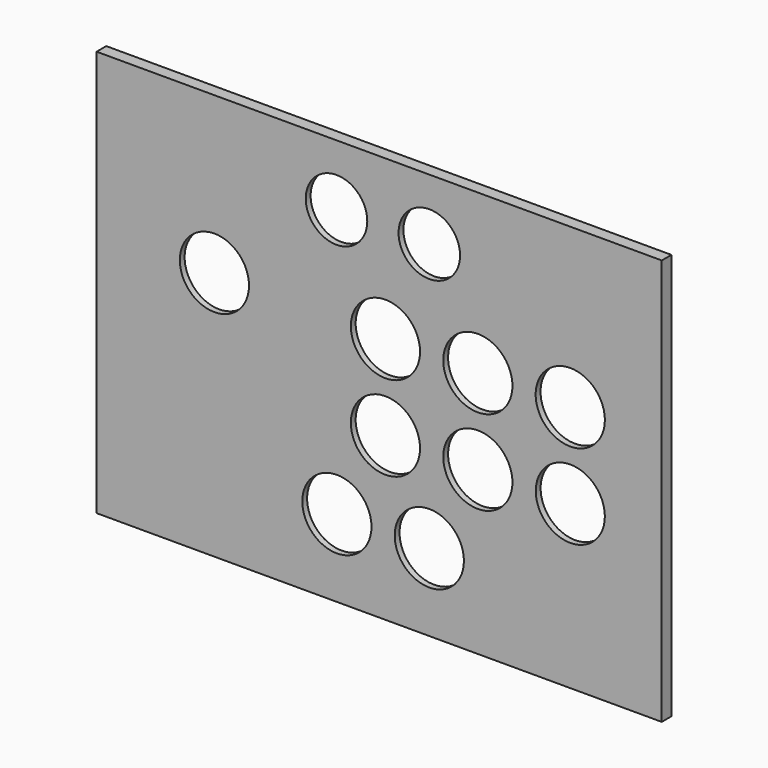
from build123d import *

# Parameters (mm, degrees)
F0_W     = 233.391122
F0_H     = 167.760142
F0_R     = 14.287094
F0_R_2   = 14.2875
F0_R_3   = 14.287856
F0_R_4   = 14.261292
F0_R_5   = 14.287475
F0_R_6   = 12.700237
F1_DEPTH = 2.5
F2_W     = 3
F2_H     = 3
F2_W_2   = 227.391122
F2_H_2   = 161.760142
F3_DEPTH = 2.5


with BuildPart() as f1:
    # F0 (on Front) → F1 (new body)
    with BuildSketch(Plane.XZ):
        Rectangle(F0_W, F0_H)
        with Locations((-17.460909, -51.958768)):
            Circle(F0_R, mode=Mode.SUBTRACT)
        with Locations((20.706644, -51.958057)):
            Circle(F0_R_2, mode=Mode.SUBTRACT)
        with Locations((2.589838, -16.863295)):
            Circle(F0_R, mode=Mode.SUBTRACT)
        with Locations((40.757772, -16.864183)):
            Circle(F0_R_3, mode=Mode.SUBTRACT)
        with Locations((78.93528, -16.822839)):
            Circle(F0_R_4, mode=Mode.SUBTRACT)
        with Locations((-68.03398, 19.30053)):
            Circle(F0_R_5, mode=Mode.SUBTRACT)
        with Locations((-17.608788, 58.596443)):
            Circle(F0_R_6, mode=Mode.SUBTRACT)
        with Locations((2.591311, 18.233144)):
            Circle(F0_R_2, mode=Mode.SUBTRACT)
        with Locations((40.755791, 18.233144)):
            Circle(F0_R_2, mode=Mode.SUBTRACT)
        with Locations((78.921871, 18.233144)):
            Circle(F0_R_2, mode=Mode.SUBTRACT)
        with Locations((20.70639, 58.596469)):
            Circle(F0_R_6, mode=Mode.SUBTRACT)
    extrude(amount=F1_DEPTH)

    # F2 (on face) → F3 (join)
    with BuildSketch(Plane(origin=(0, 0, 0), x_dir=(-1, 0, 0), z_dir=(0, 1, 0))):
        with Locations((-115.195561, -82.380071)):
            Rectangle(F2_W, F2_H)
        with Locations((0, -82.380071)):
            Rectangle(F2_W_2, F2_H)
        with Locations((-115.195561, 0)):
            Rectangle(F2_W, F2_H_2)
        with Locations((115.195561, -82.380071)):
            Rectangle(F2_W, F2_H)
        with Locations((-115.195561, 82.380071)):
            Rectangle(F2_W, F2_H)
        with Locations((115.195561, 0)):
            Rectangle(F2_W, F2_H_2)
        with Locations((0, 82.380071)):
            Rectangle(F2_W_2, F2_H)
        with Locations((115.195561, 82.380071)):
            Rectangle(F2_W, F2_H)
    extrude(amount=F3_DEPTH)


solid = f1.part
